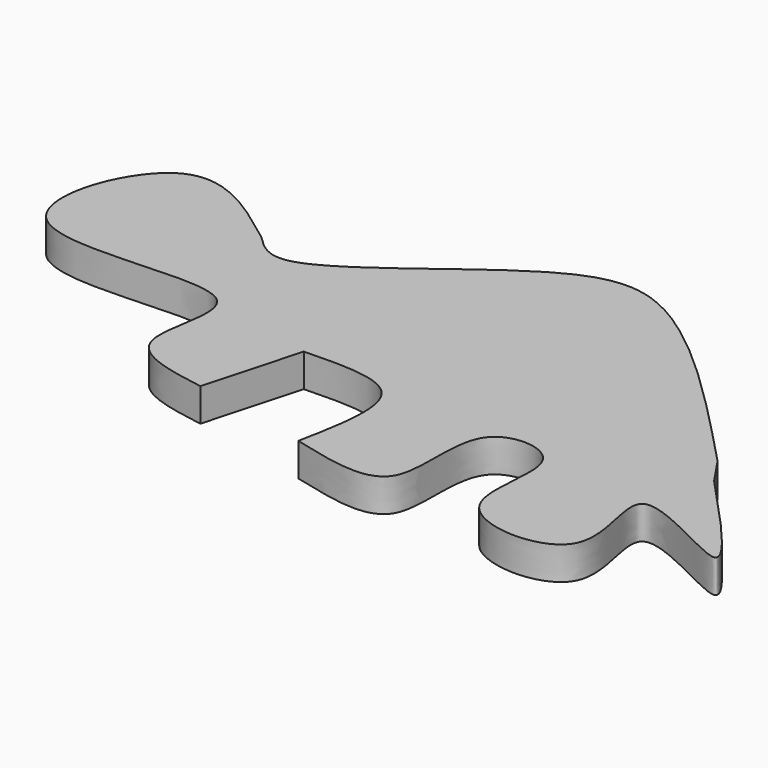
from build123d import *

# Parameters (mm, degrees)
F1_DEPTH = 3


with BuildPart() as f1:
    # F0 (on Top) → F1 (new body)
    with BuildSketch(Plane.XY):
        with BuildLine():
            add(Edge.make_bspline(
                [(-21.574072821, 3.8888887329), (-20.5864346589, 2.8919860433), (-17.4393590607, -0.284610658), (-1.7147656087, 14.8480935817), (8.6910897304, 14.4579846423), (18.8519648837, 3.7802779783), (25.0925919739, -2.7777777466)],
                knots=[0, 0, 0, 0, 0.1408378011, 0.4487748896, 0.6614474339, 1, 1, 1, 1], degree=3))
            add(Edge.make_bspline(
                [(-21.574072821, 3.8888887329), (-25.3904960568, 6.7900590146), (-33.0582175304, 12.6189108725), (-40.7985698853, -9.2869197489), (-13.2800676566, -1.1169102132), (-20.3016664137, -15.069156141), (-13.8659870791, -16.1341630394), (-10.648147467, -16.6666664795)],
                knots=[0, 0, 0, 0, 0.2046673142, 0.4112049065, 0.6620438218, 0.8310219138, 1, 1, 1, 1], degree=3))
            add(Edge.make_bspline(
                [(-10.648147467, -16.6666664795), (-9.8456784526, -13.7654318319), (-9.0432094381, -10.8641971842), (-8.2407404236, -7.9629625366)],
                knots=[0, 0, 0, 0, 9.0305077929, 9.0305077929, 9.0305077929, 9.0305077929], degree=3))
            add(Edge.make_bspline(
                [(-8.2407404236, -7.9629625366), (-4.8277684495, -7.8577922676), (2.2100057928, -7.6409242077), (0.7513037775, -15.0650811048), (0, -18.8888895752)],
                knots=[0, 0, 0, 0, 0.4849504767, 1, 1, 1, 1], degree=3))
            add(Edge.make_bspline(
                [(0, -18.8888895752), (3.6787095957, -19.8334184895), (11.1119512939, -21.7419441635), (7.4409032782, -8.3503838392), (18.1272308362, -8.9744851376), (12.6071161397, -20.9604221367), (29.0282979688, -21.5248004141), (21.0036423442, -6.7698967572), (39.3874801251, -18.7319321444), (31.1423685294, -9.9382072862), (26.8100947142, -5.3176726215)],
                knots=[0, 0, 0, 0, 0.1253636009, 0.2533110923, 0.3511393708, 0.4770696896, 0.6034554676, 0.7223636174, 0.8541200059, 1, 1, 1, 1], degree=3))
            add(Edge.make_bspline(
                [(25.0925919739, -2.7777777466), (25.6650928873, -3.6244093715), (26.2375938007, -4.4710409965), (26.8100947142, -5.3176726215)],
                knots=[0, 0, 0, 0, 3.0660857193, 3.0660857193, 3.0660857193, 3.0660857193], degree=3))
        make_face()
    extrude(amount=F1_DEPTH)


solid = f1.part
